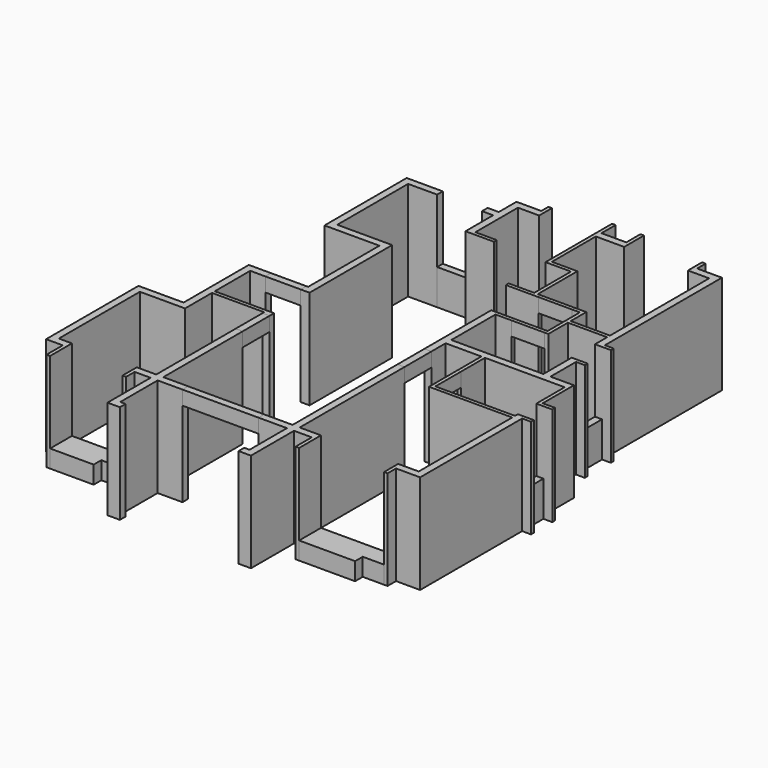
from build123d import *

# Parameters (mm, degrees)
PAD_DEPTH     = 2800
PAD001_DEPTH  = 500
SKETCH003_W   = 1266
SKETCH003_H   = 200
SKETCH003_W_2 = 200
SKETCH003_H_2 = 820
SKETCH003_H_3 = 650
PAD002_DEPTH  = 1000
SKETCH004_W   = 200
SKETCH004_H   = 950
SKETCH004_W_2 = 2150
SKETCH004_H_2 = 200
SKETCH004_W_3 = 950
SKETCH004_H_3 = 100
SKETCH004_W_4 = 100
SKETCH004_H_4 = 850
SKETCH004_W_5 = 940
SKETCH004_W_6 = 1000
PAD003_DEPTH  = 400


with BuildPart() as walls:
    # Binder → Pad (new body)
    with BuildSketch(Plane(origin=(-2277.487241, 2683.858804, 0), x_dir=(0, 1, 0), z_dir=(0, 0, 1))):
        Polygon((-2683.858804, 302.512759), (-2683.858804, 672.512759), (176.141196, 672.512759), (176.141196, -602.487241), (1126.141196, -602.487241), (1126.141196, -2077.487241), (1066.141196, -2077.487241), (1066.141196, -2277.487241), (1226.141196, -2277.487241), (1226.141196, -602.487241), (2476.141196, -602.487241), (2476.141196, -1032.487241), (2676.141196, -1032.487241), (2676.141196, -402.487241), (376.141196, -402.487241), (376.141196, 872.512759), (-2883.858804, 872.512759), (-2883.858804, 402.512759), (-3453.858804, 402.512759), (-3453.858804, 302.512759), align=None)
        Polygon((2676.141196, -2077.487241), (2676.141196, -2027.487241), (2476.141196, -2027.487241), (2476.141196, -2277.487241), (5391.141196, -2277.487241), (5391.141196, -727.487241), (7891.141196, -727.487241), (7891.141196, -1547.487241), (8091.141196, -1547.487241), (8091.141196, -527.487241), (5191.141196, -527.487241), (5191.141196, -2077.487241), align=None)
        Polygon((-2683.858804, -5927.487241), (-2683.858804, -5127.487241), (-2883.858804, -5127.487241), (-2883.858804, -5927.487241), (-4203.858804, -5927.487241), (-4203.858804, -5777.487241), (-4403.858804, -5777.487241), (-4403.858804, -6127.487241), (-2883.858804, -6127.487241), (-2883.858804, -6627.487241), (-3453.858804, -6627.487241), (-3453.858804, -6727.487241), (-2683.858804, -6727.487241), (-2683.858804, -6127.487241), (1016.141196, -6127.487241), (1016.141196, -5927.487241), align=None)
        Polygon((5566.141196, -7617.487241), (5566.141196, -7297.487241), (5466.141196, -7297.487241), (5466.141196, -7517.487241), (4226.141196, -7517.487241), (4226.141196, -7617.487241), (4916.141196, -7617.487241), (4916.141196, -8727.487241), (4486.141196, -8727.487241), (4486.141196, -9177.487241), (4586.141196, -9177.487241), (4586.141196, -8927.487241), (8716.141196, -8927.487241), (8716.141196, -8227.487241), (9016.141196, -8227.487241), (9016.141196, -8127.487241), (8516.141196, -8127.487241), (8516.141196, -8727.487241), (5016.141196, -8727.487241), (5016.141196, -7617.487241), align=None)
        Polygon((4326.141196, -5927.487241), (1966.141196, -5927.487241), (1966.141196, -6127.487241), (2466.141196, -6127.487241), (2466.141196, -7137.487241), (1616.141196, -7137.487241), (1616.141196, -7237.487241), (2466.141196, -7237.487241), (2466.141196, -9487.487241), (1466.141196, -9487.487241), (1466.141196, -9937.487241), (1566.141196, -9937.487241), (1566.141196, -9587.487241), (2666.141196, -9587.487241), (2666.141196, -8927.487241), (3566.141196, -8927.487241), (3566.141196, -9177.487241), (3666.141196, -9177.487241), (3666.141196, -8727.487241), (2666.141196, -8727.487241), (2666.141196, -6127.487241), (4226.141196, -6127.487241), (4226.141196, -6577.487241), (4326.141196, -6577.487241), align=None)
        Polygon((-2683.858804, -9487.487241), (-2683.858804, -8907.487241), (-3183.858804, -8907.487241), (-3183.858804, -9007.487241), (-2883.858804, -9007.487241), (-2883.858804, -9687.487241), (716.141196, -9687.487241), (716.141196, -9937.487241), (816.141196, -9937.487241), (816.141196, -9487.487241), (716.141196, -9487.487241), (716.141196, -7237.487241), (766.141196, -7237.487241), (766.141196, -7137.487241), (616.141196, -7137.487241), (616.141196, -9487.487241), align=None)
        Polygon((-2683.858804, -2977.487241), (-2683.858804, -2277.487241), (116.141196, -2277.487241), (116.141196, -2077.487241), (-2683.858804, -2077.487241), (-2683.858804, -1527.487241), (-3183.858804, -1527.487241), (-3183.858804, -1627.487241), (-2883.858804, -1627.487241), (-2883.858804, -2077.487241), (-4403.858804, -2077.487241), (-4403.858804, -2427.487241), (-4203.858804, -2427.487241), (-4203.858804, -2277.487241), (-2883.858804, -2277.487241), (-2883.858804, -2977.487241), align=None)
        Polygon((9216.141196, -5527.487241), (9216.141196, -5427.487241), (8516.141196, -5427.487241), (6866.141196, -5427.487241), (6866.141196, -6147.487241), (5566.141196, -6147.487241), (5566.141196, -5427.487241), (5466.141196, -5427.487241), (5466.141196, -6347.487241), (5566.141196, -6347.487241), (5566.141196, -6247.487241), (6966.141196, -6247.487241), (6966.141196, -5527.487241), (8516.141196, -5527.487241), (8516.141196, -6327.487241), (9216.141196, -6327.487241), (9216.141196, -6227.487241), (8716.141196, -6227.487241), (8716.141196, -5527.487241), align=None)
        Polygon((8091.141196, -3127.487241), (8091.141196, -2813.487241), (7891.141196, -2813.487241), (7891.141196, -3127.487241), (7016.141196, -3127.487241), (6916.141196, -3127.487241), (6916.141196, -3927.487241), (7016.141196, -3927.487241), (7016.141196, -3327.487241), (8516.141196, -3327.487241), (8516.141196, -3927.487241), (8966.141196, -3927.487241), (8966.141196, -3827.487241), (8716.141196, -3827.487241), (8716.141196, -3127.487241), align=None)
    extrude(amount=PAD_DEPTH)


with BuildPart() as obj1:
    # Sketch002 → Pad001 (new body)
    with BuildSketch(Plane.XY):
        Polygon((4450, 0), (6630, 0), (6630, -500), (6030, -500), (6030, -770), (4450, -770), align=None)
        Polygon((-2580, 0), (-750, 0), (-750, -500), (-1350, -500), (-1350, -770), (-2580, -770), align=None)
        Polygon((1650, 11200), (3150, 11200), (3150, 11900), (2250, 11900), (2250, 11650), (1650, 11650), align=None)
        Polygon((4050, 11900), (5250, 11900), (5250, 11650), (5850, 11650), (5850, 11200), (4050, 11200), align=None)
    extrude(amount=PAD001_DEPTH)

    # Sketch003 → Pad002 (join)
    with BuildSketch(Plane.XY):
        with Locations((-97, 10675)):
            Rectangle(SKETCH003_W, SKETCH003_H)
        with Locations((6550, 6760)):
            Rectangle(SKETCH003_W_2, SKETCH003_H_2)
        with Locations((7310, 3825)):
            Rectangle(SKETCH003_W_2, SKETCH003_H_3)
    extrude(amount=PAD002_DEPTH)


with BuildPart() as beams:
    # Sketch004 → Pad003 (new body)
    with BuildSketch(Plane.XY.offset(2800)):
        with Locations((-100, 3275)):
            Rectangle(SKETCH004_W, SKETCH004_H)
        with Locations((1775, -100)):
            Rectangle(SKETCH004_W_2, SKETCH004_H_2)
        with Locations((3750, 4175)):
            Rectangle(SKETCH004_W, SKETCH004_H)
        with Locations((4545, 8200)):
            Rectangle(SKETCH004_W_3, SKETCH004_H_3)
        with Locations((4910, 3875)):
            Rectangle(SKETCH004_W_4, SKETCH004_H_4)
        with Locations((4770, 6960)):
            Rectangle(SKETCH004_W_5, SKETCH004_H_3)
        with Locations((-750, 5260)):
            Rectangle(SKETCH004_W_6, SKETCH004_H_2)
    extrude(amount=-PAD003_DEPTH)


solid = Compound([walls.part, obj1.part, beams.part])
